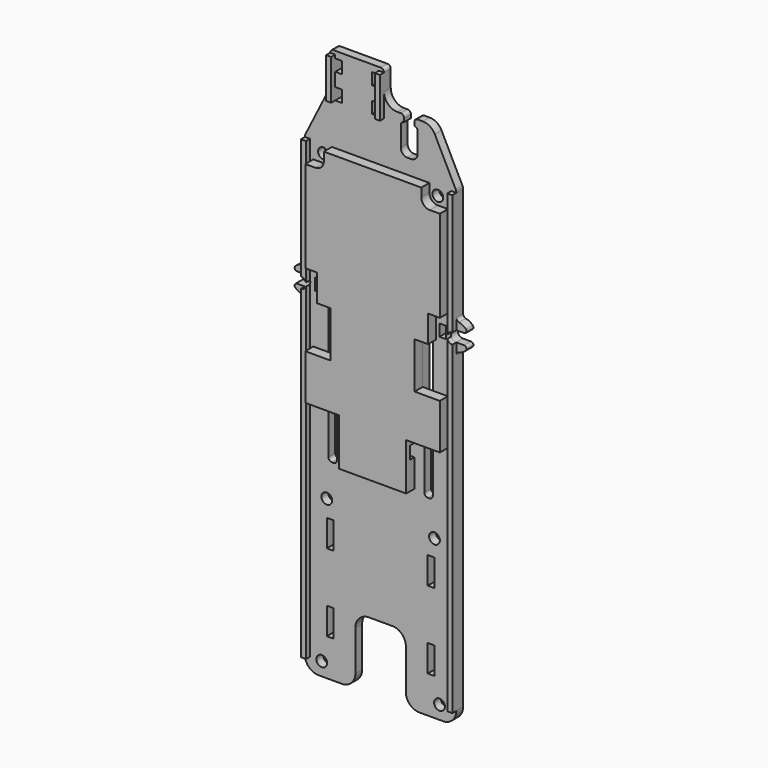
from build123d import *

# Parameters (mm, degrees)
F0_W      = 2
F0_H      = 8
F0_H_2    = 3.5
F0_W_2    = 2.5
F0_H_3    = 5
F0_W_3    = 6
F0_H_4    = 7
F0_W_4    = 20
F0_H_5    = 15
F1_DEPTH  = 2.5
F2_D      = 3.2
F3_W      = 1.5
F3_H      = 135.527864045
F3_H_2    = 11.996899128
F4_DEPTH  = 1.5
F6_DEPTH  = 25
F8_DEPTH  = 3
F9_W      = 20
F9_H      = 3.7288792729
F10_DEPTH = 1.5


with BuildPart() as f1:
    # F0 (on Front) → F1 (new body)
    with BuildSketch(Plane.XZ):
        with BuildLine():
            Line((22.443473087, 73.7288792729), (-22.443473087, 73.7288792729))
            ThreePointArc((-22.443473087, 73.7288792729), (-22.4858179894, 73.4944972095), (-22.5, 73.2567433179))
            Line((-22.5, 73.2567433179), (-22.5, 40.6278587585))
            ThreePointArc((-22.5, 40.6278587585), (-22.7254033308, 39.9954032265), (-23.3, 39.6480628614))
            ThreePointArc((-23.3, 39.6480628614), (-24.4194417239, 39.2382586295), (-25.3684023191, 38.5167580608))
            ThreePointArc((-25.3684023191, 38.5167580608), (-25.5112245743, 37.7564046425), (-24.8664319132, 37.3288792729))
            Line((-24.8664319132, 37.3288792729), (-22.5, 37.3288792729))
            ThreePointArc((-22.5, 37.3288792729), (-20.9, 35.7288792729), (-22.5, 34.1288792729))
            Line((-22.5, 34.1288792729), (-24.8664319132, 34.1288792729))
            ThreePointArc((-24.8664319132, 34.1288792729), (-25.5112245743, 33.7013539034), (-25.3684023191, 32.9410004851))
            ThreePointArc((-25.3684023191, 32.9410004851), (-24.4194417239, 32.2194999164), (-23.3, 31.8096956845))
            ThreePointArc((-23.3, 31.8096956845), (-22.7254033308, 31.4623553194), (-22.5, 30.8298997874))
            Line((-22.5, 30.8298997874), (-22.5, -62.2711207271))
            ThreePointArc((-22.5, -62.2711207271), (-21.3284271247, -65.0995478518), (-18.5, -66.2711207271))
            Line((-18.5, -66.2711207271), (-11.5, -66.2711207271))
            ThreePointArc((-11.5, -66.2711207271), (-8.6715728753, -65.0995478518), (-7.5, -62.2711207271))
            Line((-7.5, -62.2711207271), (-7.5, -50.2711207271))
            ThreePointArc((-7.5, -50.2711207271), (-6.3284271247, -47.4426936023), (-3.5, -46.2711207271))
            Line((-3.5, -46.2711207271), (3.5, -46.2711207271))
            ThreePointArc((3.5, -46.2711207271), (6.3284271247, -47.4426936023), (7.5, -50.2711207271))
            Line((7.5, -50.2711207271), (7.5, -62.2711207271))
            ThreePointArc((7.5, -62.2711207271), (8.6715728753, -65.0995478518), (11.5, -66.2711207271))
            Line((11.5, -66.2711207271), (18.5, -66.2711207271))
            ThreePointArc((18.5, -66.2711207271), (21.3284271247, -65.0995478518), (22.5, -62.2711207271))
            Line((22.5, -62.2711207271), (22.5, 30.8298997874))
            ThreePointArc((22.5, 30.8298997874), (22.7254033308, 31.4623553194), (23.3, 31.8096956845))
            ThreePointArc((23.3, 31.8096956845), (24.4194417239, 32.2194999164), (25.3684023191, 32.9410004851))
            ThreePointArc((25.3684023191, 32.9410004851), (25.5112245743, 33.7013539034), (24.8664319132, 34.1288792729))
            Line((24.8664319132, 34.1288792729), (22.5, 34.1288792729))
            ThreePointArc((22.5, 34.1288792729), (20.9, 35.7288792729), (22.5, 37.3288792729))
            Line((22.5, 37.3288792729), (24.8664319132, 37.3288792729))
            ThreePointArc((24.8664319132, 37.3288792729), (25.5112245743, 37.7564046425), (25.3684023191, 38.5167580608))
            ThreePointArc((25.3684023191, 38.5167580608), (24.4194417239, 39.2382586295), (23.3, 39.6480628614))
            ThreePointArc((23.3, 39.6480628614), (22.7254033308, 39.9954032265), (22.5, 40.6278587585))
            Line((22.5, 40.6278587585), (22.5, 73.2567433179))
            ThreePointArc((22.5, 73.2567433179), (22.4858179894, 73.4944972095), (22.443473087, 73.7288792729))
        make_face()
        with Locations((-15, -51.2711207271)):
            Rectangle(F0_W, F0_H, mode=Mode.SUBTRACT)
        with Locations((-15, -28.2711207271)):
            Rectangle(F0_W, F0_H, mode=Mode.SUBTRACT)
        with BuildLine():
            Line((-14, -9.2711207271), (-14.5, -9.2711207271))
            ThreePointArc((-14.5, -9.2711207271), (-15.2071067812, -8.9782275082), (-15.5, -8.2711207271))
            Line((-15.5, -8.2711207271), (-15.5, 4.7288792729))
            ThreePointArc((-15.5, 4.7288792729), (-15.2071067812, 5.4359860541), (-14.5, 5.7288792729))
            Line((-14.5, 5.7288792729), (-14, 5.7288792729))
            ThreePointArc((-14, 5.7288792729), (-13.2928932188, 5.4359860541), (-13, 4.7288792729))
            Line((-13, 4.7288792729), (-13, -8.2711207271))
            ThreePointArc((-13, -8.2711207271), (-13.2928932188, -8.9782275082), (-14, -9.2711207271))
        make_face(mode=Mode.SUBTRACT)
        with Locations((15, -51.2711207271)):
            Rectangle(F0_W, F0_H, mode=Mode.SUBTRACT)
        with Locations((15, -28.2711207271)):
            Rectangle(F0_W, F0_H, mode=Mode.SUBTRACT)
        with BuildLine():
            ThreePointArc((14, -9.2711207271), (13.2928932188, -8.9782275082), (13, -8.2711207271))
            Line((13, -8.2711207271), (13, 4.7288792729))
            ThreePointArc((13, 4.7288792729), (13.2928932188, 5.4359860541), (14, 5.7288792729))
            Line((14, 5.7288792729), (14.5, 5.7288792729))
            ThreePointArc((14.5, 5.7288792729), (15.2071067812, 5.4359860541), (15.5, 4.7288792729))
            Line((15.5, 4.7288792729), (15.5, -8.2711207271))
            ThreePointArc((15.5, -8.2711207271), (15.2071067812, -8.9782275082), (14.5, -9.2711207271))
            Line((14.5, -9.2711207271), (14, -9.2711207271))
        make_face(mode=Mode.SUBTRACT)
        with BuildLine():
            Line((-13.5, 15.7288792729), (-14.5, 15.7288792729))
            ThreePointArc((-14.5, 15.7288792729), (-15.2071067812, 16.0217724918), (-15.5, 16.7288792729))
            Line((-15.5, 16.7288792729), (-15.5, 34.7288792729))
            ThreePointArc((-15.5, 34.7288792729), (-15.2071067812, 35.4359860541), (-14.5, 35.7288792729))
            Line((-14.5, 35.7288792729), (-13.5, 35.7288792729))
            ThreePointArc((-13.5, 35.7288792729), (-12.7928932188, 35.4359860541), (-12.5, 34.7288792729))
            Line((-12.5, 34.7288792729), (-12.5, 16.7288792729))
            ThreePointArc((-12.5, 16.7288792729), (-12.7928932188, 16.0217724918), (-13.5, 15.7288792729))
        make_face(mode=Mode.SUBTRACT)
        with Locations((-18.5, 35.7288792729)):
            Rectangle(F0_W, F0_H_2, mode=Mode.SUBTRACT)
        with Locations((-14.25, 53.2288792729)):
            Rectangle(F0_W_2, F0_H_3, mode=Mode.SUBTRACT)
        with BuildLine():
            ThreePointArc((6.5, 19.2288792729), (6.2071067812, 18.5217724918), (5.5, 18.2288792729))
            Line((5.5, 18.2288792729), (-5.5, 18.2288792729))
            ThreePointArc((-5.5, 18.2288792729), (-6.2071067812, 18.5217724918), (-6.5, 19.2288792729))
            Line((-6.5, 19.2288792729), (-6.5, 32.2288792729))
            ThreePointArc((-6.5, 32.2288792729), (-6.2071067812, 32.9359860541), (-5.5, 33.2288792729))
            Line((-5.5, 33.2288792729), (5.5, 33.2288792729))
            ThreePointArc((5.5, 33.2288792729), (6.2071067812, 32.9359860541), (6.5, 32.2288792729))
            Line((6.5, 32.2288792729), (6.5, 19.2288792729))
        make_face(mode=Mode.SUBTRACT)
        with Locations((-9.1653205454, 44.0346747637)):
            Rectangle(F0_W_3, F0_H_4, mode=Mode.SUBTRACT)
        with Locations((0, 61.2288792729)):
            Rectangle(F0_W_4, F0_H_5, mode=Mode.SUBTRACT)
        with BuildLine():
            ThreePointArc((15.5, 16.7288792729), (15.2071067812, 16.0217724918), (14.5, 15.7288792729))
            Line((14.5, 15.7288792729), (13.5, 15.7288792729))
            ThreePointArc((13.5, 15.7288792729), (12.7928932188, 16.0217724918), (12.5, 16.7288792729))
            Line((12.5, 16.7288792729), (12.5, 34.7288792729))
            ThreePointArc((12.5, 34.7288792729), (12.7928932188, 35.4359860541), (13.5, 35.7288792729))
            Line((13.5, 35.7288792729), (14.5, 35.7288792729))
            ThreePointArc((14.5, 35.7288792729), (15.2071067812, 35.4359860541), (15.5, 34.7288792729))
            Line((15.5, 34.7288792729), (15.5, 16.7288792729))
        make_face(mode=Mode.SUBTRACT)
        with Locations((18.5, 35.7288792729)):
            Rectangle(F0_W, F0_H_2, mode=Mode.SUBTRACT)
        with Locations((14.25, 53.2288792729)):
            Rectangle(F0_W_2, F0_H_3, mode=Mode.SUBTRACT)
        with BuildLine():
            ThreePointArc((-22.288854382, 74.1511705089), (-22.3780707005, 73.9443845354), (-22.443473087, 73.7288792729))
            Line((-22.443473087, 73.7288792729), (22.443473087, 73.7288792729))
            ThreePointArc((22.443473087, 73.7288792729), (22.3780707005, 73.9443845354), (22.288854382, 74.1511705089))
            Line((22.288854382, 74.1511705089), (16.105572809, 86.5177336549))
            ThreePointArc((16.105572809, 86.5177336549), (14.6307884935, 88.1314825063), (12.527864045, 88.7288792729))
            Line((12.527864045, 88.7288792729), (11, 88.7288792729))
            ThreePointArc((11, 88.7288792729), (10.2928932188, 88.4359860541), (10, 87.7288792729))
            Line((10, 87.7288792729), (10, 86.7288792729))
            ThreePointArc((10, 86.7288792729), (10.7071067812, 86.4359860541), (11, 85.7288792729))
            Line((11, 85.7288792729), (11, 79.7288792729))
            ThreePointArc((11, 79.7288792729), (10.4142135624, 78.3146657106), (9, 77.7288792729))
            Line((9, 77.7288792729), (8, 77.7288792729))
            ThreePointArc((8, 77.7288792729), (6.5857864376, 78.3146657106), (6, 79.7288792729))
            Line((6, 79.7288792729), (6, 85.7288792729))
            ThreePointArc((6, 85.7288792729), (6.2928932188, 86.4359860541), (7, 86.7288792729))
            Line((7, 86.7288792729), (7, 87.7288792729))
            ThreePointArc((7, 87.7288792729), (6.7071067812, 88.4359860541), (6, 88.7288792729))
            Line((6, 88.7288792729), (5, 88.7288792729))
            ThreePointArc((5, 88.7288792729), (2.1715728753, 89.9004521482), (1, 92.7288792729))
            Line((1, 92.7288792729), (1, 97.7288792729))
            ThreePointArc((1, 97.7288792729), (0.7071067812, 98.4359860541), (0, 98.7288792729))
            Line((0, 98.7288792729), (-14, 98.7288792729))
            ThreePointArc((-14, 98.7288792729), (-14.7071067812, 98.4359860541), (-15, 97.7288792729))
            Line((-15, 97.7288792729), (-15, 88.7288792729))
            Line((-15, 88.7288792729), (-22.288854382, 74.1511705089))
        make_face()
        with Locations((-12.5, 87.481980145)):
            Rectangle(F0_W, F0_H_2, mode=Mode.SUBTRACT)
        with Locations((-12.5, 94.9788792729)):
            Rectangle(F0_W, F0_H_2, mode=Mode.SUBTRACT)
        with Locations((-1.5, 87.481980145)):
            Rectangle(F0_W, F0_H_2, mode=Mode.SUBTRACT)
        with Locations((-1.5, 94.9788792729)):
            Rectangle(F0_W, F0_H_2, mode=Mode.SUBTRACT)
    extrude(amount=F1_DEPTH)

    # F2 (through all)
    with Locations(Plane(origin=(0, 0, 0), x_dir=(1, 0, 0), z_dir=(0, 1, 0))):
        with Locations((-17, -70.7288792729), (17, -70.7288792729), (-16, 19.2711207271), (16, 19.2711207271), (-17.5, 62.2711207271), (17.5, 62.2711207271)):
            Hole(F2_D / 2)

    # F3 (on face) → F4 (join)
    with BuildSketch(Plane.XZ.offset(2.5)):
        with Locations((-21.75, 5.4918611676)):
            Rectangle(F3_W, F3_H)
        with Locations((21.75, 5.4918611676)):
            Rectangle(F3_W, F3_H)
        with Locations((-14.25, 91.730429709)):
            Rectangle(F3_W, F3_H_2)
        with Locations((0.25, 91.730429709)):
            Rectangle(F3_W, F3_H_2)
    extrude(amount=F4_DEPTH)

    # F5 (on face) → F6 (cut)
    with BuildSketch(Plane(origin=(0, -2.5, 0), x_dir=(-1, 0, 0), z_dir=(0, 1, 0))):
        with BuildLine():
            ThreePointArc((-21, 36.2856557092), (-21.5864471274, 37.0424321455), (-22.5, 37.3288792729))
            Line((-22.5, 37.3288792729), (-22.5, 34.1288792729))
            ThreePointArc((-22.5, 34.1288792729), (-21.5864471274, 34.4153264004), (-21, 35.1721028367))
            Line((-21, 35.1721028367), (-21, 36.2856557092))
        make_face()
        with BuildLine():
            Line((21, 36.2856557092), (21, 35.1721028367))
            ThreePointArc((21, 35.1721028367), (21.5864471274, 34.4153264004), (22.5, 34.1288792729))
            Line((22.5, 34.1288792729), (22.5, 37.3288792729))
            ThreePointArc((22.5, 37.3288792729), (21.5864471274, 37.0424321455), (21, 36.2856557092))
        make_face()
    extrude(amount=-F6_DEPTH, mode=Mode.SUBTRACT)


with BuildPart() as f8:
    # F7 (on face) → F8 (new body)
    with BuildSketch(Plane.XZ.offset(2.5)):
        with BuildLine():
            Line((-10, 5.7288792729), (0, 5.7288792729))
            Line((0, 5.7288792729), (10, 5.7288792729))
            Line((10, 5.7288792729), (20, 5.7288792729))
            Line((20, 5.7288792729), (20, 19.2288792729))
            Line((20, 19.2288792729), (12.5, 19.2288792729))
            Line((12.5, 19.2288792729), (12.5, 32.9253524542))
            Line((12.5, 32.9253524542), (16.5, 32.9253524542))
            Line((16.5, 32.9253524542), (16.5, 40.9562364221))
            Line((16.5, 40.9562364221), (20, 40.9562364221))
            Line((20, 40.9562364221), (20, 68.2019653558))
            Line((20, 68.2019653558), (17, 68.2019653558))
            ThreePointArc((17, 68.2019653558), (15.2132020337, 68.9420813066), (14.4730860828, 70.7288792729))
            Line((14.4730860828, 70.7288792729), (14.4730860828, 73.2557931901))
            Line((14.4730860828, 73.2557931901), (0, 73.2557931901))
            Line((0, 73.2557931901), (-14.4730860828, 73.2557931901))
            Line((-14.4730860828, 73.2557931901), (-14.4730860828, 70.7288792729))
            ThreePointArc((-14.4730860828, 70.7288792729), (-15.2132020337, 68.9420813066), (-17, 68.2019653558))
            Line((-17, 68.2019653558), (-20, 68.2019653558))
            Line((-20, 68.2019653558), (-20, 40.9562364221))
            Line((-20, 40.9562364221), (-16.5, 40.9562364221))
            Line((-16.5, 40.9562364221), (-16.5, 32.9253524542))
            Line((-16.5, 32.9253524542), (-12.5, 32.9253524542))
            Line((-12.5, 32.9253524542), (-12.5, 19.2288792729))
            Line((-12.5, 19.2288792729), (-20, 19.2288792729))
            Line((-20, 19.2288792729), (-20, 5.7288792729))
            Line((-20, 5.7288792729), (-10, 5.7288792729))
        make_face()
        Polygon((10, 5.7288792729), (0, 5.7288792729), (-10, 5.7288792729), (-10, -8.2596139982), (10, -8.2596139982), align=None)
    extrude(amount=F8_DEPTH)

    # F9 (on face) → F10 (cut)
    with BuildSketch(Plane(origin=(0, -2.5, 0), x_dir=(-1, 0, 0), z_dir=(0, 1, 0))):
        with Locations((0, 1.8644396365)):
            Rectangle(F9_W, F9_H)
    extrude(amount=-F10_DEPTH, mode=Mode.SUBTRACT)


solid = Compound([f1.part, f8.part])
